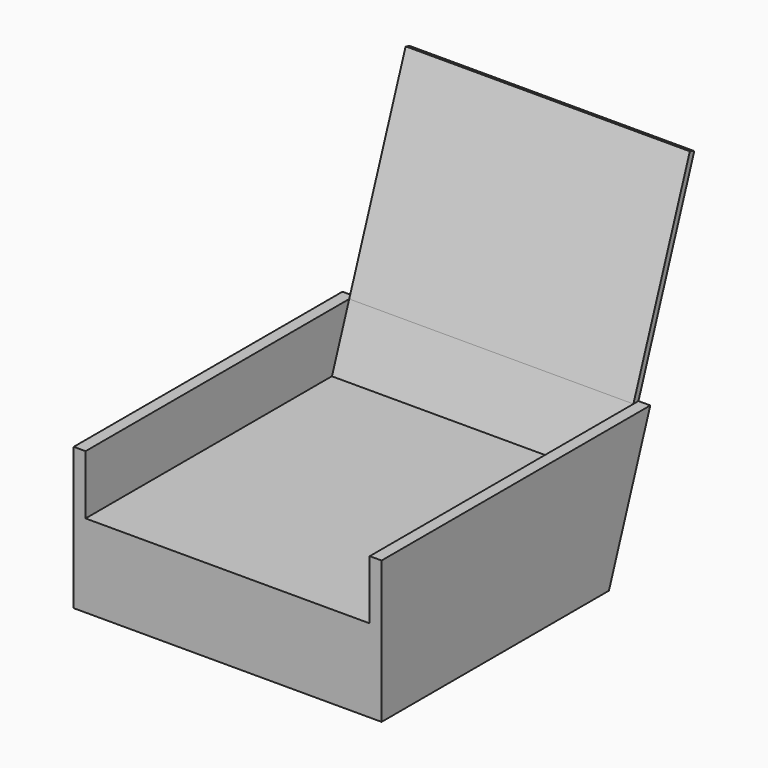
from build123d import *

# Parameters (mm, degrees)
F1_DEPTH = 12.7
F3_DEPTH = 152.4
F5_W     = 317.5
F5_H     = 12.7
F6_DEPTH = 330.2
F8_W     = 317.5
F8_H     = 6.35
F9_DEPTH = 76.2


with BuildPart() as f1:
    # F0 (on Right) → F1 (new body)
    with BuildSketch(Plane.YZ):
        Polygon((0, 152.4), (0, 0), (304.8, 0), (360.269064, 152.4), align=None)
    extrude(amount=F1_DEPTH)

    # F2 (on face) → F3 (join)
    with BuildSketch(Plane.YZ.offset(12.7)):
        Polygon((429.142626, 360.194716), (353.511535, 152.4), (360.269064, 152.4), (435.109675, 358.022889), align=None)
        Polygon((353.511535, 152.4), (298.042471, 0), (304.8, 0), (360.269064, 152.4), align=None)
    extrude(amount=F3_DEPTH)

    # F4: F1 across face


with BuildPart() as f1_1:
    add(f1.part)
    add(f1.part.mirror(Plane(origin=(165.1, 366.770487, 179.554949), x_dir=(0, 1, 0), z_dir=(1, 0, 0))))

    # F5 (on Front) → F6 (join)
    with BuildSketch(Plane.XZ):
        with Locations((158.75, 82.55)):
            Rectangle(F5_W, F5_H)
    extrude(amount=-F6_DEPTH)

    # F8 (on face) → F9 (join)
    with BuildSketch(Plane(origin=(0, 0, 76.2), x_dir=(1, 0, 0), z_dir=(0, 0, -1))):
        with Locations((158.75, -3.175)):
            Rectangle(F8_W, F8_H)
    extrude(amount=F9_DEPTH)


solid = f1_1.part
